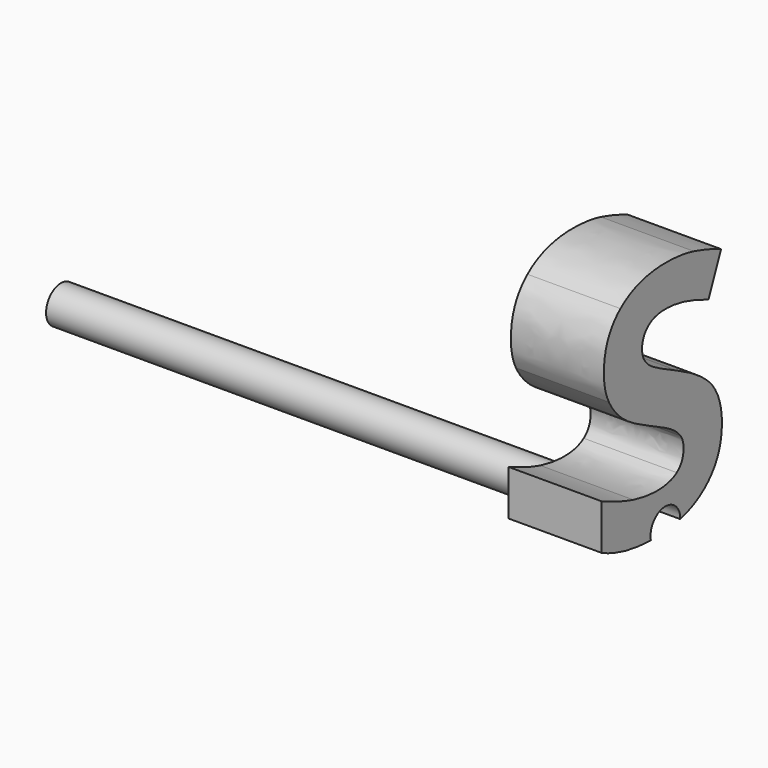
from build123d import *

# Parameters (mm, degrees)
F0_R     = 0.4
F1_DEPTH = 11
F3_DEPTH = 2


with BuildPart() as f1:
    # F0 (on Right) → F1 (new body)
    with BuildSketch(Plane.YZ):
        Circle(F0_R)
    extrude(amount=F1_DEPTH)


with BuildPart() as f3:
    # F2 (on face) → F3 (new body)
    with BuildSketch(Plane.YZ.offset(11)):
        with BuildLine():
            add(Edge.make_bspline(
                [(1.5196445934, 1.3589708153), (1.5196445934, 0.6873128292), (1.0362461559, 0.3004855722)],
                knots=[0, 0, 0, 1, 1, 1], degree=2))
            add(Edge.make_bspline(
                [(1.2619406003, 2.1776557111), (1.5196445934, 1.843996857), (1.5196445934, 1.3589708153)],
                knots=[0, 0, 0, 1, 1, 1], degree=2))
            add(Edge.make_bspline(
                [(0.3087070934, 2.8444308847), (1.0042366073, 2.5113145653), (1.2619406003, 2.1776557111)],
                knots=[0, 0, 0, 1, 1, 1], degree=2))
            add(Edge.make_bspline(
                [(-0.3569830108, 3.191653107), (-0.2164665177, 3.0950819264), (0.3087070934, 2.8444308847)],
                knots=[0, 0, 0, 1, 1, 1], degree=2))
            add(Edge.make_bspline(
                [(-0.5620611358, 3.3918484195), (-0.4974995039, 3.2882242875), (-0.3569830108, 3.191653107)],
                knots=[0, 0, 0, 1, 1, 1], degree=2))
            add(Edge.make_bspline(
                [(-0.6266227677, 3.6343614403), (-0.6266227677, 3.4954725514), (-0.5620611358, 3.3918484195)],
                knots=[0, 0, 0, 1, 1, 1], degree=2))
            add(Edge.make_bspline(
                [(-0.4671175594, 3.9967746347), (-0.6266227677, 3.8578857459), (-0.6266227677, 3.6343614403)],
                knots=[0, 0, 0, 1, 1, 1], degree=2))
            add(Edge.make_bspline(
                [(-0.0092182539, 4.1356635236), (-0.3076123511, 4.1356635236), (-0.4671175594, 3.9967746347)],
                knots=[0, 0, 0, 1, 1, 1], degree=2))
            add(Edge.make_bspline(
                [(0.500764385, 4.0711018917), (0.2414327878, 4.1356635236), (-0.0092182539, 4.1356635236)],
                knots=[0, 0, 0, 1, 1, 1], degree=2))
            add(Edge.make_bspline(
                [(1.1572313989, 3.8437798431), (0.7600959823, 4.0065402597), (0.500764385, 4.0711018917)],
                knots=[0, 0, 0, 1, 1, 1], degree=2))
            Line((1.1572313989, 3.8437798431), (1.4957730656, 4.6619222042))
            add(Edge.make_bspline(
                [(0.7617235864, 4.9190836625), (1.1127435517, 4.8279378292), (1.4957730656, 4.6619222042)],
                knots=[0, 0, 0, 1, 1, 1], degree=2))
            add(Edge.make_bspline(
                [(0.0244188989, 5.0102294959), (0.4107036211, 5.0102294959), (0.7617235864, 4.9190836625)],
                knots=[0, 0, 0, 1, 1, 1], degree=2))
            add(Edge.make_bspline(
                [(-1.20821999, 4.6342529334), (-0.7622564483, 5.0102294959), (0.0244188989, 5.0102294959)],
                knots=[0, 0, 0, 1, 1, 1], degree=2))
            add(Edge.make_bspline(
                [(-1.6541835316, 3.5996392181), (-1.6541835316, 4.2582763709), (-1.20821999, 4.6342529334)],
                knots=[0, 0, 0, 1, 1, 1], degree=2))
            add(Edge.make_bspline(
                [(-1.5185498511, 2.9898301903), (-1.6541835316, 3.2513319264), (-1.6541835316, 3.5996392181)],
                knots=[0, 0, 0, 1, 1, 1], degree=2))
            add(Edge.make_bspline(
                [(-1.1555941219, 2.5319308847), (-1.3829161705, 2.7283284542), (-1.5185498511, 2.9898301903)],
                knots=[0, 0, 0, 1, 1, 1], degree=2))
            add(Edge.make_bspline(
                [(-0.4747130455, 2.1217746347), (-0.9282720733, 2.3355333153), (-1.1555941219, 2.5319308847)],
                knots=[0, 0, 0, 1, 1, 1], degree=2))
            add(Edge.make_bspline(
                [(0.1681906003, 1.7859456417), (0.0103129961, 1.8906548431), (-0.4747130455, 2.1217746347)],
                knots=[0, 0, 0, 1, 1, 1], degree=2))
            add(Edge.make_bspline(
                [(0.4074484128, 1.5673041486), (0.3260682045, 1.6812364403), (0.1681906003, 1.7859456417)],
                knots=[0, 0, 0, 1, 1, 1], degree=2))
            add(Edge.make_bspline(
                [(0.4888286211, 1.3079725514), (0.4888286211, 1.453371857), (0.4074484128, 1.5673041486)],
                knots=[0, 0, 0, 1, 1, 1], degree=2))
            add(Edge.make_bspline(
                [(0.3038242809, 0.9146348778), (0.4888286211, 1.0464708153), (0.4888286211, 1.3079725514)],
                knots=[0, 0, 0, 1, 1, 1], degree=2))
            add(Edge.make_bspline(
                [(-0.2262321427, 0.7827989403), (0.1188199406, 0.7827989403), (0.3038242809, 0.9146348778)],
                knots=[0, 0, 0, 1, 1, 1], degree=2))
            add(Edge.make_bspline(
                [(-0.8626253719, 0.8739447736), (-0.514860615, 0.7827989403), (-0.2262321427, 0.7827989403)],
                knots=[0, 0, 0, 1, 1, 1], degree=2))
            add(Edge.make_bspline(
                [(-1.7116922122, 1.189699982), (-1.2103901289, 0.965090607), (-0.8626253719, 0.8739447736)],
                knots=[0, 0, 0, 1, 1, 1], degree=2))
            Line((-1.7116922122, 1.189699982), (-1.7116922122, 0.213137482))
            add(Edge.make_bspline(
                [(-0.3907529037, -0.0855112169), (-1.1339955238, -0.070571212), (-1.7116922122, 0.213137482)],
                knots=[0.0526596654, 0.0526596654, 0.0526596654, 1, 1, 1], degree=2))
            ThreePointArc((-0.3907529037, -0.0855112169), (-0.0430048747, 0.3976815067), (0.4, 0))
            ThreePointArc((0.4, 0), (0.3999902389, -0.0027944232), (0.399960956, -0.0055887101))
            add(Edge.make_bspline(
                [(1.0362461559, 0.3004855722), (0.773712247, 0.090399515), (0.399960956, -0.0055887101)],
                knots=[0, 0, 0, 0.5431004499, 0.5431004499, 0.5431004499], degree=2))
        make_face()
    extrude(amount=F3_DEPTH)


solid = Compound([f1.part, f3.part])
